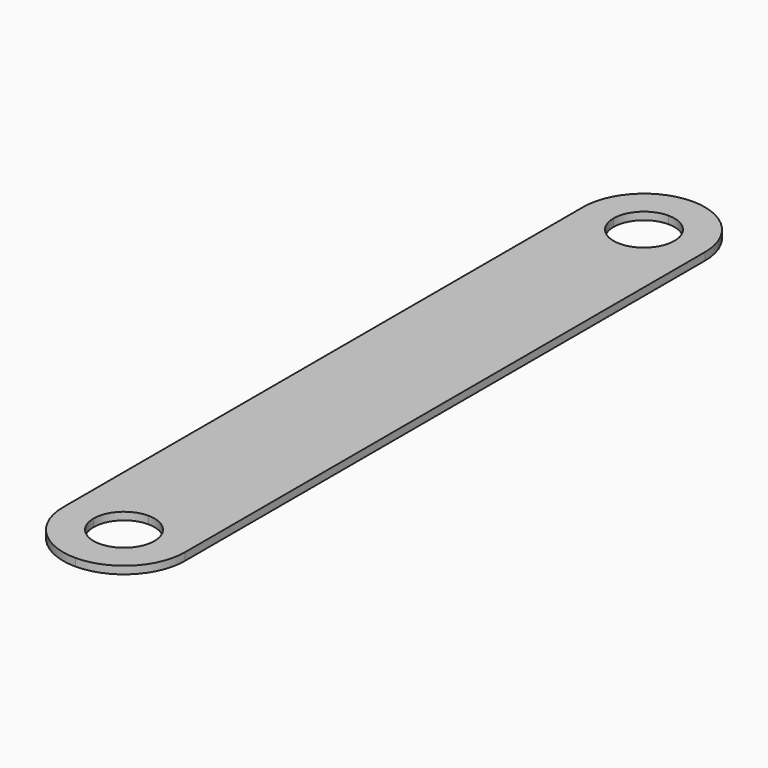
from build123d import *

# Parameters (mm, degrees)
F1_DEPTH = 1.5875


with BuildPart() as f1:
    # F0 (on Top) → F1 (new body)
    with BuildSketch(Plane.XY):
        with BuildLine():
            ThreePointArc((0, 74.0791), (4.490128, 72.219228), (6.35, 67.7291))
            Line((6.35, 67.7291), (12.7, 67.7291))
            ThreePointArc((12.7, 67.7291), (8.980256, 76.709356), (0, 80.4291))
            Line((0, 80.4291), (0, 74.0791))
        make_face()
        with BuildLine():
            Line((12.7, 67.7291), (6.35, 67.7291))
            ThreePointArc((6.35, 67.7291), (4.490128, 63.238972), (0, 61.3791))
            Line((0, 61.3791), (0, -61.3791))
            ThreePointArc((0, -61.3791), (4.490128, -63.238972), (6.35, -67.7291))
            Line((6.35, -67.7291), (12.7, -67.7291))
            Line((12.7, -67.7291), (12.7, 67.7291))
        make_face()
        with BuildLine():
            ThreePointArc((-6.35, 67.7291), (-4.490128, 72.219228), (0, 74.0791))
            Line((0, 74.0791), (0, 80.4291))
            ThreePointArc((0, 80.4291), (-8.980256, 76.709356), (-12.7, 67.7291))
            Line((-12.7, 67.7291), (-6.35, 67.7291))
        make_face()
        with BuildLine():
            Line((0, -61.3791), (0, 61.3791))
            ThreePointArc((0, 61.3791), (-4.490128, 63.238972), (-6.35, 67.7291))
            Line((-6.35, 67.7291), (-12.7, 67.7291))
            Line((-12.7, 67.7291), (-12.7, -67.7291))
            Line((-12.7, -67.7291), (-6.35, -67.7291))
            ThreePointArc((-6.35, -67.7291), (-4.490128, -63.238972), (0, -61.3791))
        make_face()
        with BuildLine():
            ThreePointArc((0, -80.4291), (8.980256, -76.709356), (12.7, -67.7291))
            Line((12.7, -67.7291), (6.35, -67.7291))
            ThreePointArc((6.35, -67.7291), (4.490128, -72.219228), (0, -74.0791))
            Line((0, -74.0791), (0, -80.4291))
        make_face()
        with BuildLine():
            ThreePointArc((-12.7, -67.7291), (-8.980256, -76.709356), (0, -80.4291))
            Line((0, -80.4291), (0, -74.0791))
            ThreePointArc((0, -74.0791), (-4.490128, -72.219228), (-6.35, -67.7291))
            Line((-6.35, -67.7291), (-12.7, -67.7291))
        make_face()
    extrude(amount=F1_DEPTH)


solid = f1.part
